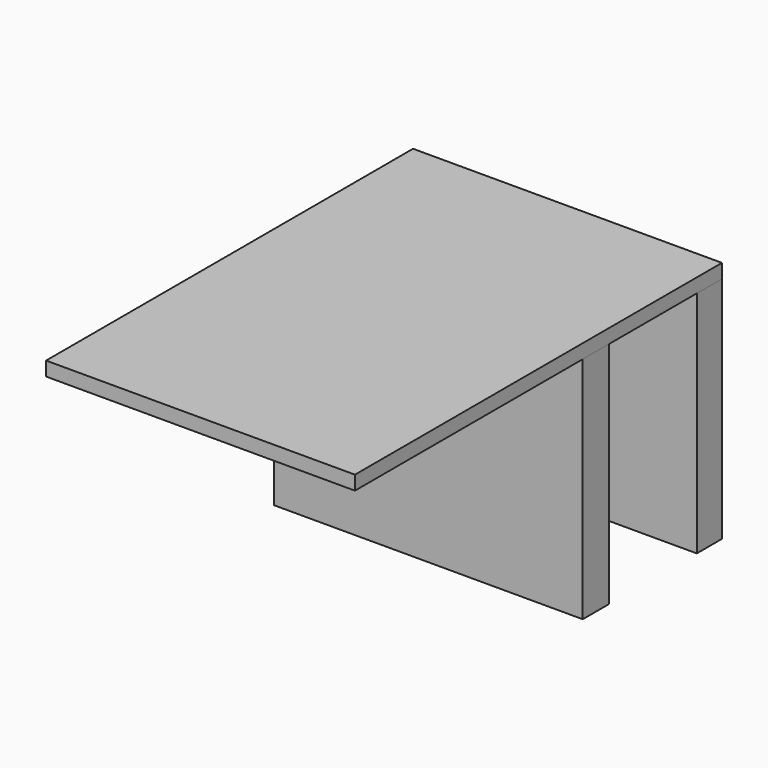
from build123d import *

# Parameters (mm, degrees)
F0_W     = 87.68911
F0_H     = 31.234168
F0_H_2   = 8.916341
F0_H_3   = 9.242192
F1_DEPTH = 4
F2_DEPTH = 65


with BuildPart() as f1:
    # F0 (on Top) → F1 (new body)
    with BuildSketch(Plane.XY):
        with BuildLine():
            ThreePointArc((-43.844555, -65.11429), (0, -50.881178), (43.844555, -65.11429))
            Line((43.844555, -65.11429), (43.844555, -58.529004))
            ThreePointArc((43.844555, -58.529004), (0.04532, -44.431547), (-43.844555, -58.244228))
            Line((-43.844555, -58.244228), (-43.844555, -65.11429))
        make_face()
        with BuildLine():
            Line((-43.844555, -65.11429), (43.844555, -65.11429))
            ThreePointArc((43.844555, -65.11429), (0, -50.881178), (-43.844555, -65.11429))
        make_face()
        with Locations((0, 40.580865)):
            Rectangle(F0_W, F0_H)
        with Locations((0, 60.656119)):
            Rectangle(F0_W, F0_H_2)
        with Locations((0, 40.580865)):
            Rectangle(F0_W, F0_H)
        with BuildLine():
            Line((-43.844555, -65.11429), (43.844555, -65.11429))
            ThreePointArc((43.844555, -65.11429), (0, -50.881178), (-43.844555, -65.11429))
        make_face()
        with Locations((0, 20.342685)):
            Rectangle(F0_W, F0_H_3)
        with Locations((0, 60.656119)):
            Rectangle(F0_W, F0_H_2)
        with BuildLine():
            ThreePointArc((-43.844555, -65.11429), (0, -50.881178), (43.844555, -65.11429))
            Line((43.844555, -65.11429), (43.844555, -58.529004))
            ThreePointArc((43.844555, -58.529004), (0.04532, -44.431547), (-43.844555, -58.244228))
            Line((-43.844555, -58.244228), (-43.844555, -65.11429))
        make_face()
        with BuildLine():
            ThreePointArc((-43.844555, -58.244228), (0.04532, -44.431547), (43.844555, -58.529004))
            Line((43.844555, -58.529004), (43.844555, 15.721589))
            Line((43.844555, 15.721589), (-43.844555, 15.721589))
            Line((-43.844555, 15.721589), (-43.844555, -58.244228))
        make_face()
        with Locations((0, 20.342685)):
            Rectangle(F0_W, F0_H_3)
        with BuildLine():
            ThreePointArc((-43.844555, -58.244228), (0.04532, -44.431547), (43.844555, -58.529004))
            Line((43.844555, -58.529004), (43.844555, 15.721589))
            Line((43.844555, 15.721589), (-43.844555, 15.721589))
            Line((-43.844555, 15.721589), (-43.844555, -58.244228))
        make_face()
    extrude(amount=F1_DEPTH)


with BuildPart() as f2:
    # F0 (on Top) → F2 (new body)
    with BuildSketch(Plane.XY):
        with Locations((0, 20.342685)):
            Rectangle(F0_W, F0_H_3)
        with Locations((0, 60.656119)):
            Rectangle(F0_W, F0_H_2)
    extrude(amount=-F2_DEPTH)


solid = Compound([f1.part, f2.part])
